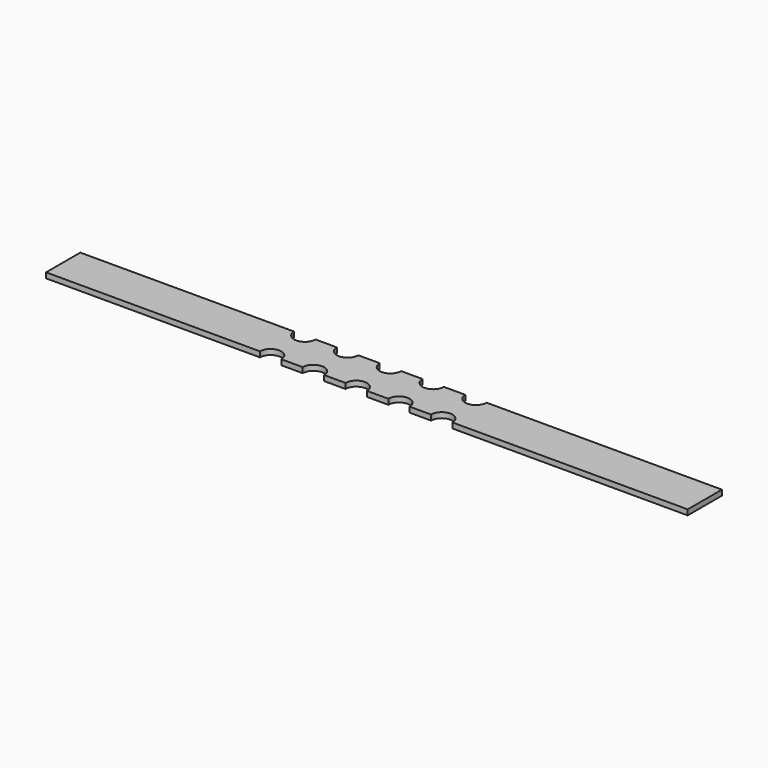
from build123d import *

# Parameters (mm, degrees)
CYLINDER_R        = 50
CYLINDER_DEPTH    = 25
CYLINDER002_R     = 50
CYLINDER002_DEPTH = 25
CYLINDER001_R     = 50
CYLINDER001_DEPTH = 25
CYLINDER003_R     = 50
CYLINDER003_DEPTH = 25
CYLINDER004_R     = 50
CYLINDER004_DEPTH = 25
CYLINDER006_R     = 50
CYLINDER006_DEPTH = 25
CYLINDER005_R     = 50
CYLINDER005_DEPTH = 25
CYLINDER007_R     = 50
CYLINDER007_DEPTH = 25
CYLINDER008_R     = 50
CYLINDER008_DEPTH = 25
CYLINDER009_R     = 50
CYLINDER009_DEPTH = 25
BOX_W             = 3000
BOX_H             = 200
BOX_DEPTH         = 25


with BuildPart() as cylinder:
    # Cylinder → Cylinder (new body)
    with BuildSketch(Plane(origin=(250, 0, 0), x_dir=(1, 0, 0), z_dir=(0, 0, 1))):
        Circle(CYLINDER_R)
    extrude(amount=CYLINDER_DEPTH)


with BuildPart() as cylinder002:
    # Cylinder002 → Cylinder002 (new body)
    with BuildSketch(Plane(origin=(650, 0, 0), x_dir=(1, 0, 0), z_dir=(0, 0, 1))):
        Circle(CYLINDER002_R)
    extrude(amount=CYLINDER002_DEPTH)


with BuildPart() as cylinder001:
    # Cylinder001 → Cylinder001 (new body)
    with BuildSketch(Plane(origin=(450, 0, 0), x_dir=(1, 0, 0), z_dir=(0, 0, 1))):
        Circle(CYLINDER001_R)
    extrude(amount=CYLINDER001_DEPTH)


with BuildPart() as cylinder003:
    # Cylinder003 → Cylinder003 (new body)
    with BuildSketch(Plane(origin=(850, 0, 0), x_dir=(1, 0, 0), z_dir=(0, 0, 1))):
        Circle(CYLINDER003_R)
    extrude(amount=CYLINDER003_DEPTH)


with BuildPart() as cylinder004:
    # Cylinder004 → Cylinder004 (new body)
    with BuildSketch(Plane(origin=(1050, 0, 0), x_dir=(1, 0, 0), z_dir=(0, 0, 1))):
        Circle(CYLINDER004_R)
    extrude(amount=CYLINDER004_DEPTH)


with BuildPart() as cylinder006:
    # Cylinder006 → Cylinder006 (new body)
    with BuildSketch(Plane(origin=(450, 200, 0), x_dir=(1, 0, 0), z_dir=(0, 0, 1))):
        Circle(CYLINDER006_R)
    extrude(amount=CYLINDER006_DEPTH)


with BuildPart() as cylinder005:
    # Cylinder005 → Cylinder005 (new body)
    with BuildSketch(Plane(origin=(250, 200, 0), x_dir=(1, 0, 0), z_dir=(0, 0, 1))):
        Circle(CYLINDER005_R)
    extrude(amount=CYLINDER005_DEPTH)


with BuildPart() as cylinder007:
    # Cylinder007 → Cylinder007 (new body)
    with BuildSketch(Plane(origin=(650, 200, 0), x_dir=(1, 0, 0), z_dir=(0, 0, 1))):
        Circle(CYLINDER007_R)
    extrude(amount=CYLINDER007_DEPTH)


with BuildPart() as cylinder008:
    # Cylinder008 → Cylinder008 (new body)
    with BuildSketch(Plane(origin=(850, 200, 0), x_dir=(1, 0, 0), z_dir=(0, 0, 1))):
        Circle(CYLINDER008_R)
    extrude(amount=CYLINDER008_DEPTH)


with BuildPart() as fusion:
    # Cylinder009 → Cylinder009 (new body)
    with BuildSketch(Plane(origin=(1050, 200, 0), x_dir=(1, 0, 0), z_dir=(0, 0, 1))):
        Circle(CYLINDER009_R)
    extrude(amount=CYLINDER009_DEPTH)

    # Fusion: union Cylinder, Cylinder002, Cylinder001, Cylinder003, Cylinder004, Cylinder006, Cylinder005, Cylinder007, Cylinder008
    add(cylinder.part)
    add(cylinder002.part)
    add(cylinder001.part)
    add(cylinder003.part)
    add(cylinder004.part)
    add(cylinder006.part)
    add(cylinder005.part)
    add(cylinder007.part)
    add(cylinder008.part)


with BuildPart() as cut:
    # Box → Box (new body)
    with BuildSketch(Plane(origin=(-800, 0, 0), x_dir=(1, 0, 0), z_dir=(0, 0, 1))):
        with Locations((1500, 100)):
            Rectangle(BOX_W, BOX_H)
    extrude(amount=BOX_DEPTH)

    # Cut: cut Fusion
    add(fusion.part, mode=Mode.SUBTRACT)


solid = cut.part
